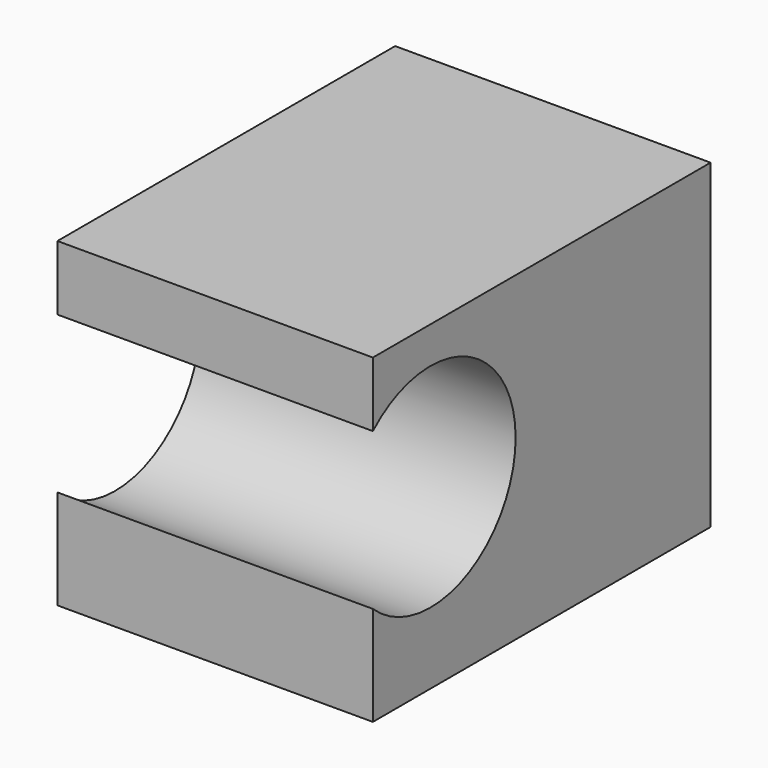
from build123d import *

# Parameters (mm, degrees)
F0_W     = 37.3645620421
F0_H     = 37.9954185337
F1_DEPTH = 25
F3_DEPTH = 37.3645620421


with BuildPart() as f1:
    # F0 (on Front) → F1 (new body, symmetric)
    with BuildSketch(Plane.XZ):
        with Locations((-11.968282517, 2.8362469748)):
            Rectangle(F0_W, F0_H)
    extrude(amount=F1_DEPTH, both=True)

    # F2 (on face) → F3 (cut, through all)
    with BuildSketch(Plane(origin=(-30.6505635381, 0, 0), x_dir=(0, -1, 0), z_dir=(-1, 0, 0))):
        with BuildLine():
            Line((25, -4.3767026195), (25, 14.1620502376))
            ThreePointArc((25, 14.1620502376), (3.8662195951, 4.8926738091), (25, -4.3767026195))
        make_face()
        with BuildLine():
            ThreePointArc((25, -4.3767026195), (28.0045153025, -0.1682149926), (29.0655925125, 4.8926738091))
            ThreePointArc((29.0655925125, 4.8926738091), (28.0045153025, 9.9535626108), (25, 14.1620502376))
            Line((25, 14.1620502376), (25, -4.3767026195))
        make_face()
    extrude(amount=-F3_DEPTH, mode=Mode.SUBTRACT)


solid = f1.part
